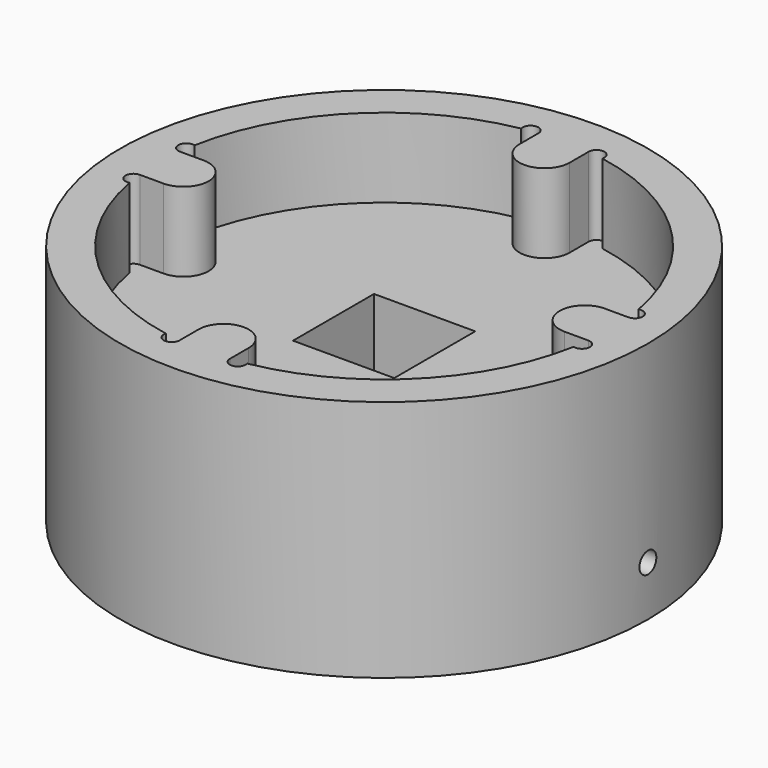
from build123d import *

# Parameters (mm, degrees)
F0_R     = 50
F1_DEPTH = 46
F3_DEPTH = 15
F4_W     = 19.177
F4_H     = 19.177
F5_DEPTH = 46.001
F7_R     = 2
F8_DEPTH = 40.4115


with BuildPart() as f1:
    # F0 (on Top) → F1 (new body)
    with BuildSketch(Plane.XY):
        Circle(F0_R)
    extrude(amount=F1_DEPTH)

    # F2 (on face) → F3 (cut)
    with BuildSketch(Plane.XY.offset(46)):
        with BuildLine():
            ThreePointArc((-4.75, 42.485292), (-6.468315, 43.969319), (-7.686451, 42.053311))
            ThreePointArc((-7.686451, 42.053311), (-30.228815, 30.228815), (-42.053311, 7.686451))
            ThreePointArc((-42.053311, 7.686451), (-43.969319, 6.468315), (-42.485292, 4.75))
            Line((-42.485292, 4.75), (-38, 4.75))
            ThreePointArc((-38, 4.75), (-33.25, 0), (-38, -4.75))
            Line((-38, -4.75), (-42.485292, -4.75))
            ThreePointArc((-42.485292, -4.75), (-43.969319, -6.468315), (-42.053311, -7.686451))
            ThreePointArc((-42.053311, -7.686451), (-30.228815, -30.228815), (-7.686451, -42.053311))
            ThreePointArc((-7.686451, -42.053311), (-6.468315, -43.969319), (-4.75, -42.485292))
            Line((-4.75, -42.485292), (-4.75, -38))
            ThreePointArc((-4.75, -38), (0, -33.25), (4.75, -38))
            Line((4.75, -38), (4.75, -42.485292))
            ThreePointArc((4.75, -42.485292), (6.468315, -43.969319), (7.686451, -42.053311))
            ThreePointArc((7.686451, -42.053311), (30.228815, -30.228815), (42.053311, -7.686451))
            ThreePointArc((42.053311, -7.686451), (43.969319, -6.468315), (42.485292, -4.75))
            Line((42.485292, -4.75), (38, -4.75))
            ThreePointArc((38, -4.75), (33.25, 0), (38, 4.75))
            Line((38, 4.75), (42.485292, 4.75))
            ThreePointArc((42.485292, 4.75), (43.969319, 6.468315), (42.053311, 7.686451))
            ThreePointArc((42.053311, 7.686451), (30.228815, 30.228815), (7.686451, 42.053311))
            ThreePointArc((7.686451, 42.053311), (6.468315, 43.969319), (4.75, 42.485292))
            Line((4.75, 42.485292), (4.75, 38))
            ThreePointArc((4.75, 38), (0, 33.25), (-4.75, 38))
            Line((-4.75, 38), (-4.75, 42.485292))
        make_face()
    extrude(amount=-F3_DEPTH, mode=Mode.SUBTRACT)

    # F4 (on face) → F5 (cut, through all)
    with BuildSketch(Plane(origin=(0, 0, 0), x_dir=(1, 0, 0), z_dir=(0, 0, -1))):
        Rectangle(F4_W, F4_H)
    extrude(amount=-F5_DEPTH, mode=Mode.SUBTRACT)

    # F7 (on offset) → F8 (cut, through all)
    with BuildSketch(Plane.YZ.offset(50)):
        with Locations((0, 9.5)):
            Circle(F7_R)
    extrude(amount=-F8_DEPTH, mode=Mode.SUBTRACT)


solid = f1.part
